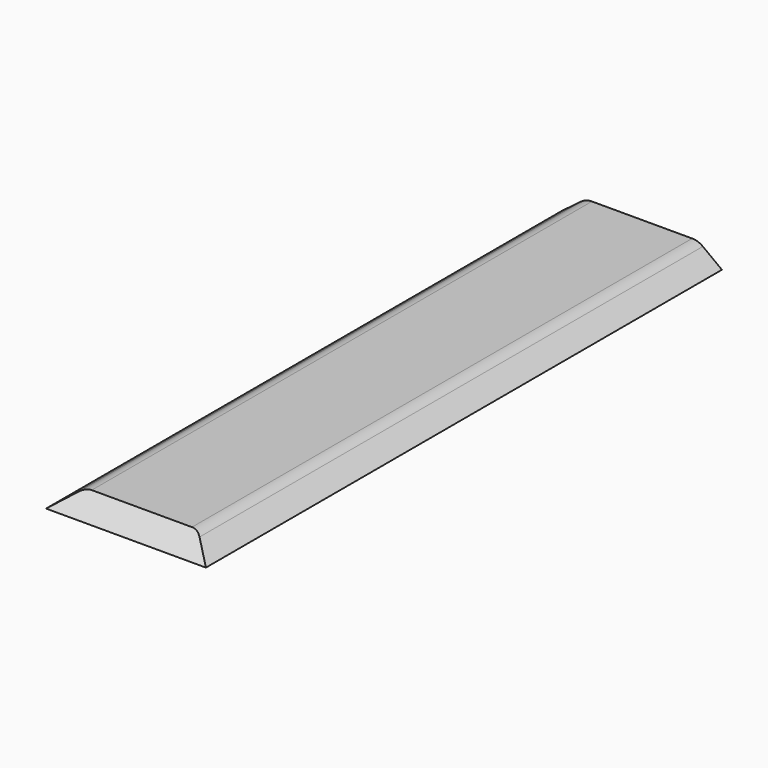
from build123d import *

# Parameters (mm, degrees)
F3_DEPTH = 157.4
F4_DEPTH = 5
F6_DEPTH = 100


with BuildPart() as f3:
    # F2 (on offset) → F3 (new body)
    with BuildSketch(Plane.XZ.offset(76.2)):
        with BuildLine():
            ThreePointArc((15.32, 3.6), (16.644922, 2.012461), (17.12, 0))
            Line((17.12, 0), (20.12, 0))
            Line((20.12, 0), (15.32, 3.6))
        make_face()
        with BuildLine():
            ThreePointArc((-17.12, 0), (-16.644922, 2.012461), (-15.32, 3.6))
            Line((-15.32, 3.6), (-20.12, 0))
            Line((-20.12, 0), (-17.12, 0))
        make_face()
        with BuildLine():
            ThreePointArc((-4.5, 0), (-3.181981, 3.181981), (0, 4.5))
            Line((0, 4.5), (-12.62, 4.5))
            ThreePointArc((-12.62, 4.5), (-9.438019, 3.181981), (-8.12, 0))
            Line((-8.12, 0), (-4.5, 0))
        make_face()
        with BuildLine():
            ThreePointArc((0, 4.5), (3.181981, 3.181981), (4.5, 0))
            Line((4.5, 0), (8.12, 0))
            ThreePointArc((8.12, 0), (9.438019, 3.181981), (12.62, 4.5))
            Line((12.62, 4.5), (0, 4.5))
        make_face()
        with BuildLine():
            ThreePointArc((15.32, 3.6), (14.043025, 4.269075), (12.62, 4.5))
            Line((12.62, 4.5), (12.62, 0))
            Line((12.62, 0), (15.32, 3.6))
        make_face()
        with BuildLine():
            Line((0, 0), (4.5, 0))
            ThreePointArc((4.5, 0), (3.181981, 3.181981), (0, 4.5))
            Line((0, 4.5), (0, 0))
        make_face()
        with BuildLine():
            Line((0, 0), (0, 4.5))
            ThreePointArc((0, 4.5), (-3.181981, 3.181981), (-4.5, 0))
            Line((-4.5, 0), (0, 0))
        make_face()
        with BuildLine():
            Line((12.62, 0), (17.12, 0))
            ThreePointArc((17.12, 0), (16.644922, 2.012461), (15.32, 3.6))
            Line((15.32, 3.6), (12.62, 0))
        make_face()
        with BuildLine():
            ThreePointArc((12.62, 4.5), (9.438019, 3.181981), (8.12, 0))
            Line((8.12, 0), (12.62, 0))
            Line((12.62, 0), (12.62, 4.5))
        make_face()
        with BuildLine():
            Line((-12.62, 0), (-12.62, 4.5))
            ThreePointArc((-12.62, 4.5), (-14.043025, 4.269075), (-15.32, 3.6))
            ThreePointArc((-15.32, 3.6), (-16.644922, 2.012461), (-17.12, 0))
            Line((-17.12, 0), (-12.62, 0))
        make_face()
        with BuildLine():
            ThreePointArc((-8.12, 0), (-9.438019, 3.181981), (-12.62, 4.5))
            Line((-12.62, 4.5), (-12.62, 0))
            Line((-12.62, 0), (-8.12, 0))
        make_face()
    extrude(amount=-F3_DEPTH)

    # F3_face (on face) → F4 (join)
    with BuildSketch(Plane(origin=(0, -76.2, 2.111862), x_dir=(1, 0, 0), z_dir=(0, -1, 0))):
        with BuildLine():
            ThreePointArc((15.32, 1.488138), (14.043025, 2.157213), (12.62, 2.388138))
            Line((12.62, 2.388138), (-12.62, 2.388138))
            ThreePointArc((-12.62, 2.388138), (-14.043025, 2.157213), (-15.32, 1.488138))
            Line((-15.32, 1.488138), (-20.12, -2.111862))
            Line((-20.12, -2.111862), (20.12, -2.111862))
            Line((20.12, -2.111862), (15.32, 1.488138))
        make_face()
    extrude(amount=F4_DEPTH)

    # F5 (on Right) → F6 (cut, symmetric)
    with BuildSketch(Plane.YZ):
        Polygon((-81.2, 4.5), (-81.2, 0), (-76.2, 4.5), align=None)
    extrude(amount=F6_DEPTH, both=True, mode=Mode.SUBTRACT)


solid = f3.part
